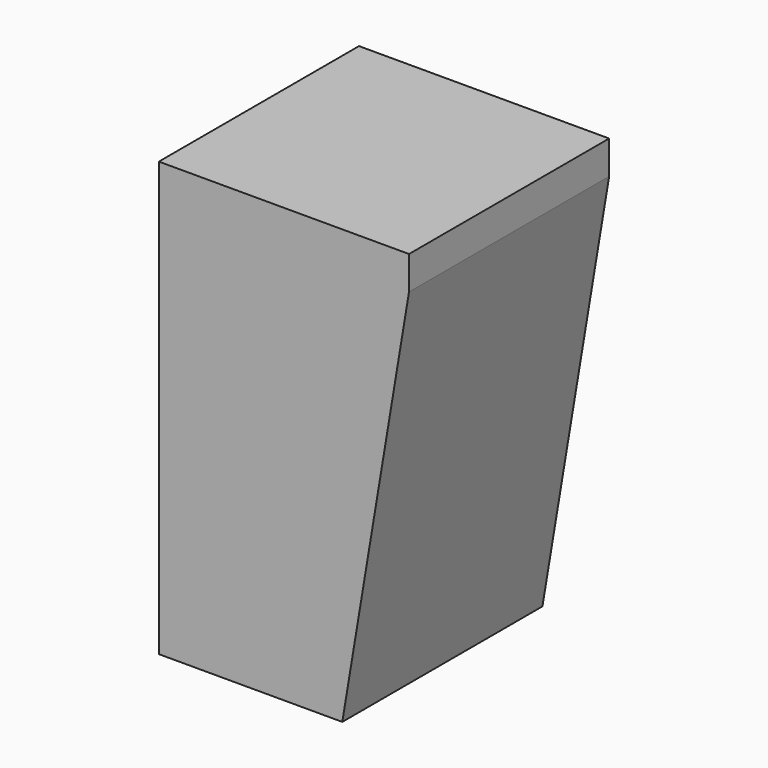
from build123d import *

# Parameters (mm, degrees)
SKETCH_W     = 45
SKETCH_H     = 45
PAD_DEPTH    = 78
POCKET_DEPTH = 45.001


with BuildPart() as part:
    # Sketch → Pad (new body)
    with BuildSketch(Plane.XY):
        with Locations((-22.5, 22.5)):
            Rectangle(SKETCH_W, SKETCH_H)
    extrude(amount=PAD_DEPTH)

    # Sketch001 (on Face1 of Pad) → Pocket (cut, through all)
    with BuildSketch(Plane.XZ):
        Polygon((-12, 0), (0, 72), (0, 0), align=None)
    extrude(amount=-POCKET_DEPTH, mode=Mode.SUBTRACT)


solid = part.part
